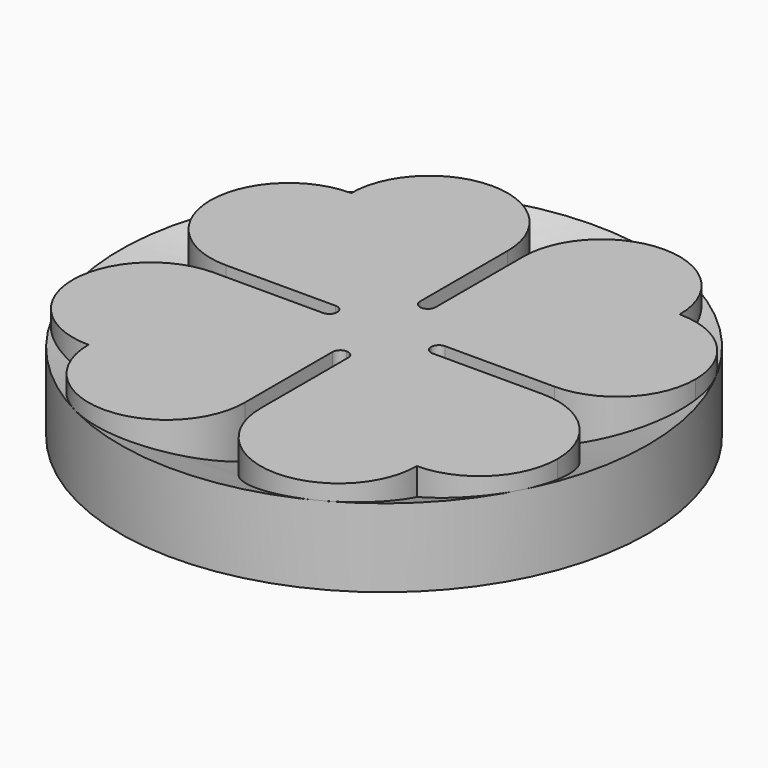
from build123d import *

# Parameters (mm, degrees)
F0_R     = 33.75
F1_DEPTH = 10
F2_R     = 33.75
F3_DEPTH = 10
F3_TAPER = 70
F4_DEPTH = 12


with BuildPart() as f1:
    # F0 (on Top) → F1 (new body)
    with BuildSketch(Plane.XY):
        Circle(F0_R)
        with BuildLine():
            Line((-21, 0), (-21, 1))
            ThreePointArc((-21, 1), (-31, 11), (-21, 21))
            ThreePointArc((-21, 21), (-11, 31), (-1, 21))
            Line((-1, 21), (0, 21))
            Line((0, 21), (1, 21))
            ThreePointArc((1, 21), (11, 31), (21, 21))
            ThreePointArc((21, 21), (28.0710678119, 18.0710678119), (31, 11))
            ThreePointArc((31, 11), (28.0710678119, 3.9289321881), (21, 1))
            Line((21, 1), (21, 0))
            Line((21, 0), (21, -1))
            ThreePointArc((21, -1), (28.0710678119, -3.9289321881), (31, -11))
            ThreePointArc((31, -11), (28.0710678119, -18.0710678119), (21, -21))
            ThreePointArc((21, -21), (11, -31), (1, -21))
            Line((1, -21), (0, -21))
            Line((0, -21), (-1, -21))
            ThreePointArc((-1, -21), (-11, -31), (-21, -21))
            ThreePointArc((-21, -21), (-31, -11), (-21, -1))
            Line((-21, -1), (-21, 0))
        make_face(mode=Mode.SUBTRACT)
        with BuildLine():
            ThreePointArc((-21, 21), (-31, 11), (-21, 1))
            ThreePointArc((-21, 1), (-13.9289321881, 3.9289321881), (-11, 11))
            ThreePointArc((-11, 11), (-18.0710678119, 13.9289321881), (-21, 21))
        make_face()
        with BuildLine():
            ThreePointArc((-11, 11), (-3.9289321881, 13.9289321881), (-1, 21))
            ThreePointArc((-1, 21), (-11, 31), (-21, 21))
            ThreePointArc((-21, 21), (-13.9289321881, 18.0710678119), (-11, 11))
        make_face()
        with BuildLine():
            ThreePointArc((21, 21), (11, 31), (1, 21))
            ThreePointArc((1, 21), (3.9289321881, 13.9289321881), (11, 11))
            ThreePointArc((11, 11), (13.9289321881, 18.0710678119), (21, 21))
        make_face()
        with BuildLine():
            ThreePointArc((11, 11), (13.9289321881, 3.9289321881), (21, 1))
            ThreePointArc((21, 1), (28.0710678119, 3.9289321881), (31, 11))
            ThreePointArc((31, 11), (28.0710678119, 18.0710678119), (21, 21))
            ThreePointArc((21, 21), (18.0710678119, 13.9289321881), (11, 11))
        make_face()
        with BuildLine():
            ThreePointArc((31, -11), (28.0710678119, -3.9289321881), (21, -1))
            ThreePointArc((21, -1), (13.9289321881, -3.9289321881), (11, -11))
            ThreePointArc((11, -11), (18.0710678119, -13.9289321881), (21, -21))
            ThreePointArc((21, -21), (28.0710678119, -18.0710678119), (31, -11))
        make_face()
        with BuildLine():
            ThreePointArc((11, -11), (3.9289321881, -13.9289321881), (1, -21))
            ThreePointArc((1, -21), (11, -31), (21, -21))
            ThreePointArc((21, -21), (13.9289321881, -18.0710678119), (11, -11))
        make_face()
        with BuildLine():
            ThreePointArc((-21, -21), (-11, -31), (-1, -21))
            ThreePointArc((-1, -21), (-3.9289321881, -13.9289321881), (-11, -11))
            ThreePointArc((-11, -11), (-13.9289321881, -18.0710678119), (-21, -21))
        make_face()
        with BuildLine():
            ThreePointArc((-11, -11), (-13.9289321881, -3.9289321881), (-21, -1))
            ThreePointArc((-21, -1), (-31, -11), (-21, -21))
            ThreePointArc((-21, -21), (-18.0710678119, -13.9289321881), (-11, -11))
        make_face()
        with BuildLine():
            Line((0, -6), (0, 0))
            Line((0, 0), (-6, 0))
            ThreePointArc((-6, 0), (-6.2928932188, -0.7071067812), (-7, -1))
            Line((-7, -1), (-21, -1))
            ThreePointArc((-21, -1), (-13.9289321881, -3.9289321881), (-11, -11))
            ThreePointArc((-11, -11), (-3.9289321881, -13.9289321881), (-1, -21))
            Line((-1, -21), (-1, -7))
            ThreePointArc((-1, -7), (-0.7071067812, -6.2928932188), (0, -6))
        make_face()
        with BuildLine():
            Line((6, 0), (0, 0))
            Line((0, 0), (0, -6))
            ThreePointArc((0, -6), (0.7071067812, -6.2928932188), (1, -7))
            Line((1, -7), (1, -21))
            ThreePointArc((1, -21), (3.9289321881, -13.9289321881), (11, -11))
            ThreePointArc((11, -11), (13.9289321881, -3.9289321881), (21, -1))
            Line((21, -1), (7, -1))
            ThreePointArc((7, -1), (6.2928932188, -0.7071067812), (6, 0))
        make_face()
        with BuildLine():
            Line((0, 6), (0, 0))
            Line((0, 0), (6, 0))
            ThreePointArc((6, 0), (6.2928932188, 0.7071067812), (7, 1))
            Line((7, 1), (21, 1))
            ThreePointArc((21, 1), (13.9289321881, 3.9289321881), (11, 11))
            ThreePointArc((11, 11), (3.9289321881, 13.9289321881), (1, 21))
            Line((1, 21), (1, 7))
            ThreePointArc((1, 7), (0.7071067812, 6.2928932188), (0, 6))
        make_face()
        with BuildLine():
            Line((-6, 0), (0, 0))
            Line((0, 0), (0, 6))
            ThreePointArc((0, 6), (-0.7071067812, 6.2928932188), (-1, 7))
            Line((-1, 7), (-1, 21))
            ThreePointArc((-1, 21), (-3.9289321881, 13.9289321881), (-11, 11))
            ThreePointArc((-11, 11), (-13.9289321881, 3.9289321881), (-21, 1))
            Line((-21, 1), (-7, 1))
            ThreePointArc((-7, 1), (-6.2928932188, 0.7071067812), (-6, 0))
        make_face()
        with BuildLine():
            ThreePointArc((-21, 21), (-18.0710678119, 13.9289321881), (-11, 11))
            ThreePointArc((-11, 11), (-13.9289321881, 18.0710678119), (-21, 21))
        make_face()
        with BuildLine():
            ThreePointArc((21, 21), (13.9289321881, 18.0710678119), (11, 11))
            ThreePointArc((11, 11), (18.0710678119, 13.9289321881), (21, 21))
        make_face()
        with BuildLine():
            ThreePointArc((21, -21), (18.0710678119, -13.9289321881), (11, -11))
            ThreePointArc((11, -11), (13.9289321881, -18.0710678119), (21, -21))
        make_face()
        with BuildLine():
            ThreePointArc((-21, -21), (-13.9289321881, -18.0710678119), (-11, -11))
            ThreePointArc((-11, -11), (-18.0710678119, -13.9289321881), (-21, -21))
        make_face()
        with BuildLine():
            ThreePointArc((0, 8), (0.7071067812, 7.7071067812), (1, 7))
            Line((1, 7), (1, 21))
            Line((1, 21), (0, 21))
            Line((0, 21), (0, 8))
        make_face()
        with BuildLine():
            Line((-1, 21), (-1, 7))
            ThreePointArc((-1, 7), (-0.7071067812, 7.7071067812), (0, 8))
            Line((0, 8), (0, 21))
            Line((0, 21), (-1, 21))
        make_face()
        with BuildLine():
            Line((-21, -1), (-7, -1))
            ThreePointArc((-7, -1), (-7.7071067812, -0.7071067812), (-8, 0))
            Line((-8, 0), (-21, 0))
            Line((-21, 0), (-21, -1))
        make_face()
        with BuildLine():
            ThreePointArc((-8, 0), (-7.7071067812, 0.7071067812), (-7, 1))
            Line((-7, 1), (-21, 1))
            Line((-21, 1), (-21, 0))
            Line((-21, 0), (-8, 0))
        make_face()
        with BuildLine():
            Line((21, 1), (7, 1))
            ThreePointArc((7, 1), (7.7071067812, 0.7071067812), (8, 0))
            Line((8, 0), (21, 0))
            Line((21, 0), (21, 1))
        make_face()
        with BuildLine():
            ThreePointArc((8, 0), (7.7071067812, -0.7071067812), (7, -1))
            Line((7, -1), (21, -1))
            Line((21, -1), (21, 0))
            Line((21, 0), (8, 0))
        make_face()
        with BuildLine():
            Line((1, -21), (1, -7))
            ThreePointArc((1, -7), (0.7071067812, -7.7071067812), (0, -8))
            Line((0, -8), (0, -21))
            Line((0, -21), (1, -21))
        make_face()
        with BuildLine():
            ThreePointArc((0, -8), (-0.7071067812, -7.7071067812), (-1, -7))
            Line((-1, -7), (-1, -21))
            Line((-1, -21), (0, -21))
            Line((0, -21), (0, -8))
        make_face()
        with BuildLine():
            ThreePointArc((-1, 7), (-0.7071067812, 6.2928932188), (0, 6))
            Line((0, 6), (0, 7))
            Line((0, 7), (0, 8))
            ThreePointArc((0, 8), (-0.7071067812, 7.7071067812), (-1, 7))
        make_face()
        with BuildLine():
            Line((0, 7), (0, 6))
            ThreePointArc((0, 6), (0.7071067812, 6.2928932188), (1, 7))
            ThreePointArc((1, 7), (0.7071067812, 7.7071067812), (0, 8))
            Line((0, 8), (0, 7))
        make_face()
        with BuildLine():
            Line((-7, 0), (-6, 0))
            ThreePointArc((-6, 0), (-6.2928932188, 0.7071067812), (-7, 1))
            ThreePointArc((-7, 1), (-7.7071067812, 0.7071067812), (-8, 0))
            Line((-8, 0), (-7, 0))
        make_face()
        with BuildLine():
            ThreePointArc((-7, -1), (-6.2928932188, -0.7071067812), (-6, 0))
            Line((-6, 0), (-7, 0))
            Line((-7, 0), (-8, 0))
            ThreePointArc((-8, 0), (-7.7071067812, -0.7071067812), (-7, -1))
        make_face()
        with BuildLine():
            Line((7, 0), (6, 0))
            ThreePointArc((6, 0), (6.2928932188, -0.7071067812), (7, -1))
            ThreePointArc((7, -1), (7.7071067812, -0.7071067812), (8, 0))
            Line((8, 0), (7, 0))
        make_face()
        with BuildLine():
            ThreePointArc((7, 1), (6.2928932188, 0.7071067812), (6, 0))
            Line((6, 0), (7, 0))
            Line((7, 0), (8, 0))
            ThreePointArc((8, 0), (7.7071067812, 0.7071067812), (7, 1))
        make_face()
        with BuildLine():
            Line((0, -7), (0, -6))
            ThreePointArc((0, -6), (-0.7071067812, -6.2928932188), (-1, -7))
            ThreePointArc((-1, -7), (-0.7071067812, -7.7071067812), (0, -8))
            Line((0, -8), (0, -7))
        make_face()
        with BuildLine():
            ThreePointArc((1, -7), (0.7071067812, -6.2928932188), (0, -6))
            Line((0, -6), (0, -7))
            Line((0, -7), (0, -8))
            ThreePointArc((0, -8), (0.7071067812, -7.7071067812), (1, -7))
        make_face()
    extrude(amount=F1_DEPTH)

    # F2 (on face) → F3 (cut)
    with BuildSketch(Plane.XY.offset(10)):
        Circle(F2_R)
    extrude(amount=-F3_DEPTH, taper=F3_TAPER, mode=Mode.SUBTRACT)

    # F0 (on Top) → F4 (join)
    with BuildSketch(Plane.XY):
        with BuildLine():
            ThreePointArc((11, -11), (3.9289321881, -13.9289321881), (1, -21))
            ThreePointArc((1, -21), (11, -31), (21, -21))
            ThreePointArc((21, -21), (13.9289321881, -18.0710678119), (11, -11))
        make_face()
        with BuildLine():
            ThreePointArc((21, -21), (18.0710678119, -13.9289321881), (11, -11))
            ThreePointArc((11, -11), (13.9289321881, -18.0710678119), (21, -21))
        make_face()
        with BuildLine():
            ThreePointArc((31, -11), (28.0710678119, -3.9289321881), (21, -1))
            ThreePointArc((21, -1), (13.9289321881, -3.9289321881), (11, -11))
            ThreePointArc((11, -11), (18.0710678119, -13.9289321881), (21, -21))
            ThreePointArc((21, -21), (28.0710678119, -18.0710678119), (31, -11))
        make_face()
        with BuildLine():
            ThreePointArc((11, 11), (13.9289321881, 3.9289321881), (21, 1))
            ThreePointArc((21, 1), (28.0710678119, 3.9289321881), (31, 11))
            ThreePointArc((31, 11), (28.0710678119, 18.0710678119), (21, 21))
            ThreePointArc((21, 21), (18.0710678119, 13.9289321881), (11, 11))
        make_face()
        with BuildLine():
            ThreePointArc((21, 21), (13.9289321881, 18.0710678119), (11, 11))
            ThreePointArc((11, 11), (18.0710678119, 13.9289321881), (21, 21))
        make_face()
        with BuildLine():
            ThreePointArc((21, 21), (11, 31), (1, 21))
            ThreePointArc((1, 21), (3.9289321881, 13.9289321881), (11, 11))
            ThreePointArc((11, 11), (13.9289321881, 18.0710678119), (21, 21))
        make_face()
        with BuildLine():
            ThreePointArc((-11, 11), (-3.9289321881, 13.9289321881), (-1, 21))
            ThreePointArc((-1, 21), (-11, 31), (-21, 21))
            ThreePointArc((-21, 21), (-13.9289321881, 18.0710678119), (-11, 11))
        make_face()
        with BuildLine():
            ThreePointArc((-21, 21), (-18.0710678119, 13.9289321881), (-11, 11))
            ThreePointArc((-11, 11), (-13.9289321881, 18.0710678119), (-21, 21))
        make_face()
        with BuildLine():
            ThreePointArc((-21, 21), (-31, 11), (-21, 1))
            ThreePointArc((-21, 1), (-13.9289321881, 3.9289321881), (-11, 11))
            ThreePointArc((-11, 11), (-18.0710678119, 13.9289321881), (-21, 21))
        make_face()
        with BuildLine():
            ThreePointArc((-11, -11), (-13.9289321881, -3.9289321881), (-21, -1))
            ThreePointArc((-21, -1), (-31, -11), (-21, -21))
            ThreePointArc((-21, -21), (-18.0710678119, -13.9289321881), (-11, -11))
        make_face()
        with BuildLine():
            ThreePointArc((-21, -21), (-11, -31), (-1, -21))
            ThreePointArc((-1, -21), (-3.9289321881, -13.9289321881), (-11, -11))
            ThreePointArc((-11, -11), (-13.9289321881, -18.0710678119), (-21, -21))
        make_face()
        with BuildLine():
            ThreePointArc((-21, -21), (-13.9289321881, -18.0710678119), (-11, -11))
            ThreePointArc((-11, -11), (-18.0710678119, -13.9289321881), (-21, -21))
        make_face()
        with BuildLine():
            Line((0, -6), (0, 0))
            Line((0, 0), (-6, 0))
            ThreePointArc((-6, 0), (-6.2928932188, -0.7071067812), (-7, -1))
            Line((-7, -1), (-21, -1))
            ThreePointArc((-21, -1), (-13.9289321881, -3.9289321881), (-11, -11))
            ThreePointArc((-11, -11), (-3.9289321881, -13.9289321881), (-1, -21))
            Line((-1, -21), (-1, -7))
            ThreePointArc((-1, -7), (-0.7071067812, -6.2928932188), (0, -6))
        make_face()
        with BuildLine():
            Line((6, 0), (0, 0))
            Line((0, 0), (0, -6))
            ThreePointArc((0, -6), (0.7071067812, -6.2928932188), (1, -7))
            Line((1, -7), (1, -21))
            ThreePointArc((1, -21), (3.9289321881, -13.9289321881), (11, -11))
            ThreePointArc((11, -11), (13.9289321881, -3.9289321881), (21, -1))
            Line((21, -1), (7, -1))
            ThreePointArc((7, -1), (6.2928932188, -0.7071067812), (6, 0))
        make_face()
        with BuildLine():
            Line((0, 6), (0, 0))
            Line((0, 0), (6, 0))
            ThreePointArc((6, 0), (6.2928932188, 0.7071067812), (7, 1))
            Line((7, 1), (21, 1))
            ThreePointArc((21, 1), (13.9289321881, 3.9289321881), (11, 11))
            ThreePointArc((11, 11), (3.9289321881, 13.9289321881), (1, 21))
            Line((1, 21), (1, 7))
            ThreePointArc((1, 7), (0.7071067812, 6.2928932188), (0, 6))
        make_face()
        with BuildLine():
            Line((-6, 0), (0, 0))
            Line((0, 0), (0, 6))
            ThreePointArc((0, 6), (-0.7071067812, 6.2928932188), (-1, 7))
            Line((-1, 7), (-1, 21))
            ThreePointArc((-1, 21), (-3.9289321881, 13.9289321881), (-11, 11))
            ThreePointArc((-11, 11), (-13.9289321881, 3.9289321881), (-21, 1))
            Line((-21, 1), (-7, 1))
            ThreePointArc((-7, 1), (-6.2928932188, 0.7071067812), (-6, 0))
        make_face()
    extrude(amount=F4_DEPTH)


solid = f1.part
